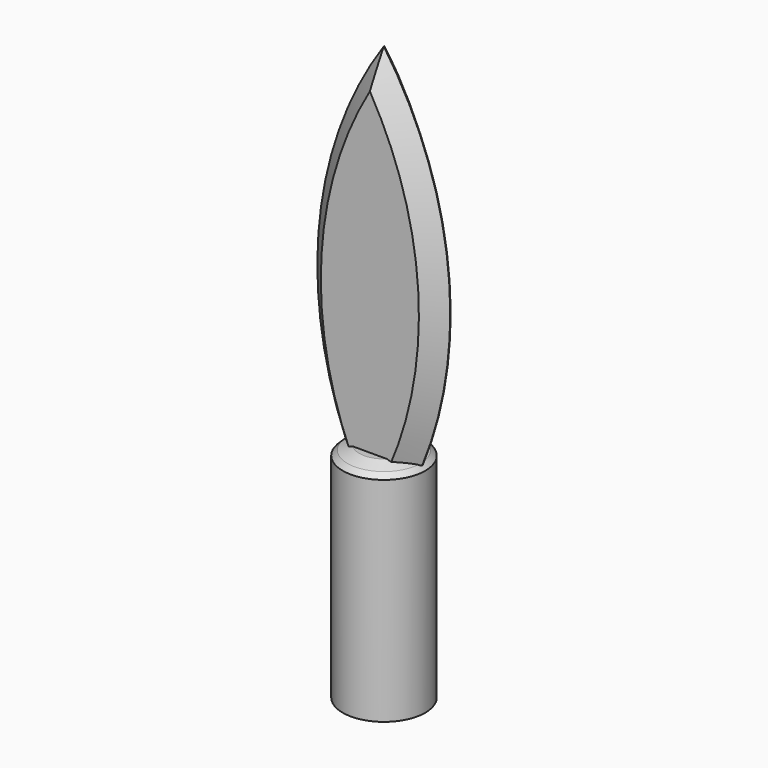
from build123d import *

# Parameters (mm, degrees)
F8_R     = 29.6187054139
F0_DEPTH = 160
F1_DEPTH = 12.7
F2_SIZE  = 12.5
F4_SIZE  = 7
F5_SIZE  = 5
F6_R     = 21.8994140724
F7_DEPTH = 130


with BuildPart() as f0:
    # F8 (on Top) → F0 (new body)
    with BuildSketch(Plane.XY):
        Circle(F8_R)
    extrude(amount=F0_DEPTH)

    # F4
    f4_edges = [f0.edges().sort_by_distance(p)[0] for p in [
        (-29.618705, 0, 160),
    ]]
    chamfer(f4_edges, length=F4_SIZE)

    # F5
    f5_edges = [f0.edges().sort_by_distance(p)[0] for p in [
        (-22.618705, 0, 160),
    ]]
    chamfer(f5_edges, length=F5_SIZE)

    # F6 (on Top) → F7 (cut)
    with BuildSketch(Plane.XY):
        Circle(F6_R)
    extrude(amount=F7_DEPTH, mode=Mode.SUBTRACT)


with BuildPart() as f1:
    # F9 (on Front) → F1 (new body, symmetric)
    with BuildSketch(Plane.XZ):
        with BuildLine():
            Line((-27.6122391224, 155.7444036007), (27.6122391224, 155.7444036007))
            ThreePointArc((27.6122391224, 155.7444036007), (46.1533501296, 287.276587292), (0, 411.8332266808))
            ThreePointArc((0, 411.8332266808), (-46.1533501296, 287.276587292), (-27.6122391224, 155.7444036007))
        make_face()
    extrude(amount=F1_DEPTH, both=True)

    # F2
    f2_edges = [f1.edges().sort_by_distance(p)[0] for p in [
        (-46.15335, -12.7, 287.276587),
        (46.15335, -12.7, 287.276587),
        (-46.15335, 12.7, 287.276587),
        (46.15335, 12.7, 287.276587),
    ]]
    chamfer(f2_edges, length=F2_SIZE)


solid = Compound([f0.part, f1.part])
